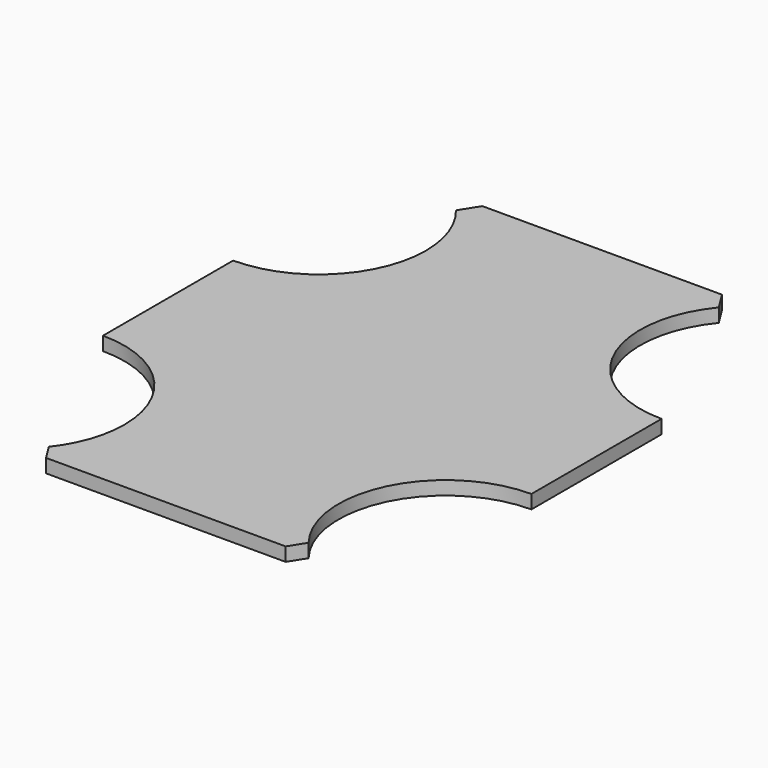
from build123d import *

# Parameters (mm, degrees)
F0_W     = 110
F0_H     = 140
F1_DEPTH = 3.5
F3_DEPTH = 25
F5_DEPTH = 25


with BuildPart() as f1:
    # F0 (on Top) → F1 (new body)
    with BuildSketch(Plane.XY):
        Rectangle(F0_W, F0_H)
    extrude(amount=F1_DEPTH)

    # F2 (on face) → F3 (cut)
    with BuildSketch(Plane.XY.offset(3.5)):
        with BuildLine():
            ThreePointArc((-55, 20.325035), (-35.554564, 28.379598), (-27.5, 47.825035))
            ThreePointArc((-27.5, 47.825035), (-30.469277, 60.254582), (-38.735901, 70))
            Line((-38.735901, 70), (-55, 70))
            Line((-55, 70), (-55, 20.325035))
        make_face()
        with BuildLine():
            Line((-55, 70), (-38.735901, 70))
            ThreePointArc((-38.735901, 70), (-81.134857, 56.381858), (-55, 20.325035))
            Line((-55, 20.325035), (-55, 70))
        make_face()
        with BuildLine():
            ThreePointArc((-27.5, -48.937567), (-35.554564, -29.49213), (-55, -21.437567))
            Line((-55, -21.437567), (-55, -70))
            Line((-55, -70), (-37.318826, -70))
            ThreePointArc((-37.318826, -70), (-30.075291, -60.556898), (-27.5, -48.937567))
        make_face()
        with BuildLine():
            Line((-55, -70), (-55, -21.437567))
            ThreePointArc((-55, -21.437567), (-80.840539, -58.34589), (-37.318826, -70))
            Line((-37.318826, -70), (-55, -70))
        make_face()
        with BuildLine():
            ThreePointArc((82.5, 47.825035), (67.429547, 72.355757), (38.735901, 70))
            Line((38.735901, 70), (55, 70))
            Line((55, 70), (55, 20.325035))
            ThreePointArc((55, 20.325035), (74.445436, 28.379598), (82.5, 47.825035))
        make_face()
        with BuildLine():
            Line((55, 70), (38.735901, 70))
            ThreePointArc((38.735901, 70), (28.865143, 39.268211), (55, 20.325035))
            Line((55, 20.325035), (55, 70))
        make_face()
        with BuildLine():
            Line((55, -70), (55, -21.437567))
            ThreePointArc((55, -21.437567), (29.159461, -39.529244), (37.318826, -70))
            Line((37.318826, -70), (55, -70))
        make_face()
        with BuildLine():
            ThreePointArc((82.5, -48.937567), (74.445436, -29.49213), (55, -21.437567))
            Line((55, -21.437567), (55, -70))
            Line((55, -70), (37.318826, -70))
            ThreePointArc((37.318826, -70), (66.619331, -73.862276), (82.5, -48.937567))
        make_face()
    extrude(amount=-F3_DEPTH, mode=Mode.SUBTRACT)

    # F4 (on face) → F5 (cut)
    with BuildSketch(Plane.XY.offset(3.5)):
        Polygon((-60.47887, 76.34218), (-39.233364, 56.513041), (-26.769334, 76.34218), align=None)
        Polygon((26.769334, 76.34218), (39.233364, 56.513041), (60.47887, 76.34218), align=None)
        Polygon((-39.233364, -56.513041), (-60.47887, -76.34218), (-26.769334, -76.34218), align=None)
        Polygon((60.47887, -76.34218), (39.233364, -56.513041), (26.769334, -76.34218), align=None)
    extrude(amount=-F5_DEPTH, mode=Mode.SUBTRACT)


solid = f1.part
